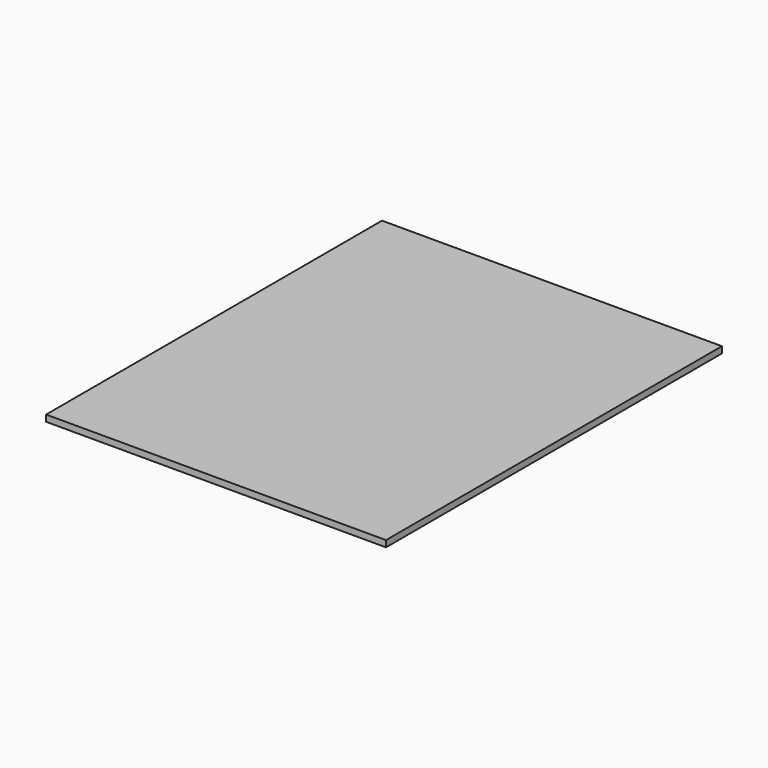
from build123d import *

# Parameters (mm, degrees)
SKETCH_W  = 85
SKETCH_H  = 105
PAD_DEPTH = 1.6


with BuildPart() as part:
    # Sketch → Pad (new body)
    with BuildSketch(Plane.XY):
        Rectangle(SKETCH_W, SKETCH_H)
    extrude(amount=PAD_DEPTH)


solid = part.part
